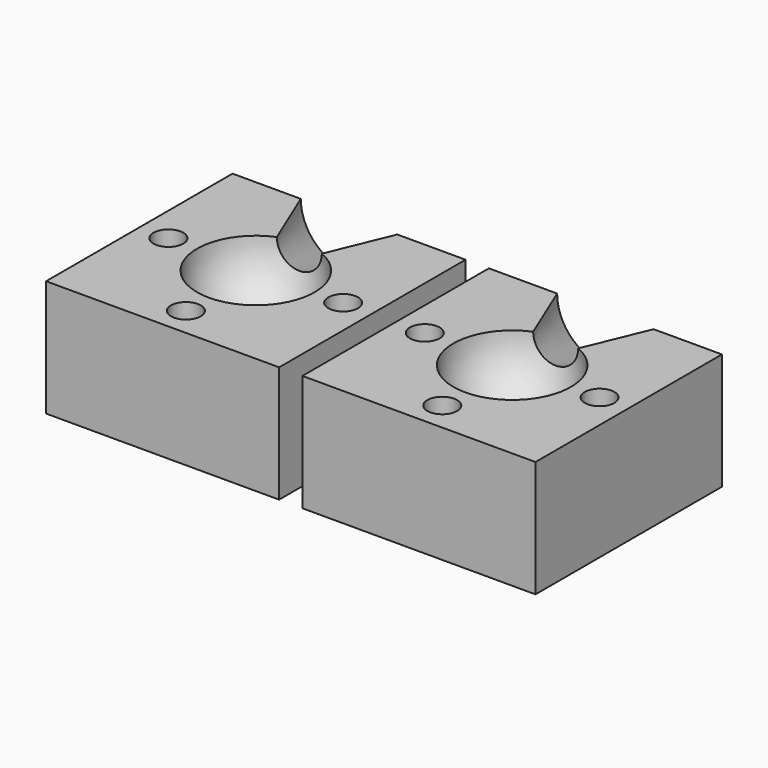
from build123d import *

# Parameters (mm, degrees)
F0_W     = 50.8
F0_H     = 50.8
F1_DEPTH = 25.4
F7_D     = 6.477


with BuildPart() as f1:
    # F0 (on Top) → F1 (new body)
    with BuildSketch(Plane.XY):
        Rectangle(F0_W, F0_H)
    extrude(amount=F1_DEPTH)

    # F2 (on face) → F3 (revolve, cut)
    with BuildSketch(Plane.XY.offset(25.4)):
        with BuildLine():
            Line((0, 0), (0, -12.827))
            ThreePointArc((0, -12.827), (12.827, 0), (0, 12.827))
            Line((0, 12.827), (0, 0))
        make_face()
    revolve(axis=Axis((0, 0, 25.4), (0, -1, 0)), mode=Mode.SUBTRACT)

    # F4 (on face) → F5 (revolve, cut)
    with BuildSketch(Plane.XY.offset(25.4)):
        with BuildLine():
            ThreePointArc((0, 12.827), (2.5011105439, 12.5807938957), (4.9062066365, 11.851627122))
            Line((4.9062066365, 11.851627122), (10.5148134753, 25.4))
            Line((10.5148134753, 25.4), (0, 25.4))
            Line((0, 25.4), (0, 12.827))
        make_face()
    revolve(axis=Axis((0, 12.7, 25.4), (0, -1, 0)), mode=Mode.SUBTRACT)

    # F7 (through all)
    with Locations(Plane.XY.offset(25.4)):
        with Locations((19.05, 0), (0, -19.05), (-19.05, 0)):
            Hole(F7_D / 2)


with BuildPart() as f1_1:
    # F8: moved
    add(f1.part.moved(Location((-27.94, 0, 0))))


with BuildPart() as f9_1:
    # F9: copy of F1
    add(f1_1.part.moved(Location((55.88, 0, 0))))


solid = Compound([f1_1.part, f9_1.part])
